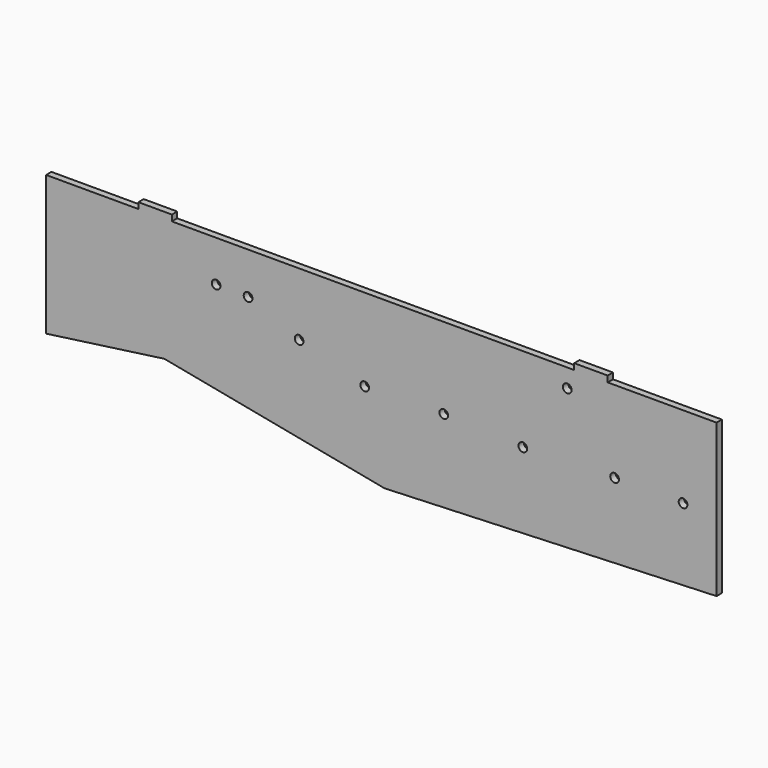
from build123d import *

# Parameters (mm, degrees)
F0_R     = 1.651
F1_DEPTH = 2.5273
F2_W     = 12.7
F2_H     = 2.5273
F3_DEPTH = 2.286


with BuildPart() as f1:
    # F0 (on Front) → F1 (new body)
    with BuildSketch(Plane.XZ):
        Polygon((0, 18.331273), (0, 76.2), (-254, 76.2), (-254, 23.273453), (-209.199416, 29.45118), (-125.800113, 13.389091), align=None)
        with Locations((-133.2992, 44.95241)):
            Circle(F0_R, mode=Mode.SUBTRACT)
        with Locations((-158.149656, 52.368343)):
            Circle(F0_R, mode=Mode.SUBTRACT)
        with Locations((-189.570545, 60.600705)):
            Circle(F0_R, mode=Mode.SUBTRACT)
        with Locations((-177.480145, 60.392081)):
            Circle(F0_R, mode=Mode.SUBTRACT)
        with Locations((-103.3526, 45.469268)):
            Circle(F0_R, mode=Mode.SUBTRACT)
        with Locations((-73.406, 44.126774)):
            Circle(F0_R, mode=Mode.SUBTRACT)
        with Locations((-38.6334, 45.212)):
            Circle(F0_R, mode=Mode.SUBTRACT)
        with Locations((-12.7, 45.184507)):
            Circle(F0_R, mode=Mode.SUBTRACT)
        with Locations((-56.570332, 69.220096)):
            Circle(F0_R, mode=Mode.SUBTRACT)
    extrude(amount=F1_DEPTH)

    # F2 (on face) → F3 (join)
    with BuildSketch(Plane.XY.offset(76.2)):
        with Locations((-47.595028, -1.26365)):
            Rectangle(F2_W, F2_H)
        with Locations((-212.695028, -1.26365)):
            Rectangle(F2_W, F2_H)
    extrude(amount=F3_DEPTH)


solid = f1.part
